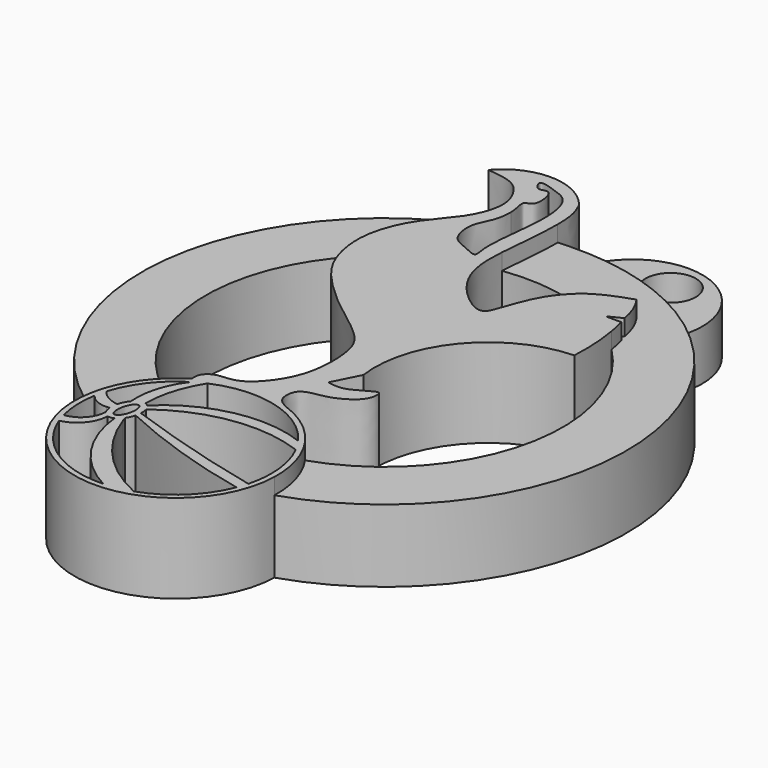
from build123d import *

# Parameters (mm, degrees)
F1_DEPTH = 5.588
F2_DEPTH = 4.572
F0_R     = 1.5875
F3_DEPTH = 3.175


with BuildPart() as f1:
    # F0 (on Top) → F1 (new body)
    with BuildSketch(Plane.XY):
        with BuildLine():
            add(Edge.make_bspline(
                [(9.4675226137, 28.9262570441), (9.6377884434, 28.5600730354), (9.8834628699, 28.0317104333), (9.9280116405, 27.0129335697), (9.9282543864, 26.6723102261)],
                knots=[0, 0, 0, 0, 0.086876421, 0.1254084481, 0.1254084481, 0.1254084481, 0.1254084481], degree=3))
            ThreePointArc((9.4675226137, 28.9262570441), (6.5855398975, 30.3820848584), (3.6394693889, 29.0607493371))
            add(Edge.make_bspline(
                [(6.4153594217, 25.9647323346), (6.4694288075, 26.1984831119), (6.5563532827, 26.8898738414), (6.270923947, 27.7619188194), (5.4817546262, 28.8759570044), (4.2923126572, 28.9952652155), (3.6394693889, 29.0607493371)],
                knots=[0.8329926078, 0.8329926078, 0.8329926078, 0.8329926078, 0.8544251793, 0.8987905471, 0.944461113, 1, 1, 1, 1], degree=3))
            add(Edge.make_bspline(
                [(3.2489586205, 19.4570574161), (3.2585820188, 19.6765598198), (3.3658053865, 20.7114630816), (4.1472744899, 22.7145193738), (5.8461302345, 24.3574500689), (6.3231041453, 25.5658977218), (6.4153594217, 25.9647323346)],
                knots=[0.6429007901, 0.6429007901, 0.6429007901, 0.6429007901, 0.6613953068, 0.7286933511, 0.7964235257, 0.8329926078, 0.8329926078, 0.8329926078, 0.8329926078], degree=3))
            add(Edge.make_bspline(
                [(6.1439445414, 2.5635087569), (6.1267459896, 2.7509238022), (6.0940391149, 3.1550863106), (6.7703318299, 3.7566090085), (8.0090184334, 3.6121657015), (9.3365928321, 4.7290568927), (10.4435600689, 6.7568994007), (10.4183432895, 9.6417123507), (9.7664304489, 11.1898983478), (7.1153127654, 13.0380454394), (5.4457461838, 14.5197066883), (3.9449714633, 16.1524276119), (3.3363630073, 17.8398435734), (3.2275529519, 18.9688103784), (3.2489586205, 19.4570574161)],
                knots=[0, 0, 0, 0, 0.0306711388, 0.0667544219, 0.1111782472, 0.1634228644, 0.2264017607, 0.2949835219, 0.3477803976, 0.4205545778, 0.4838772835, 0.5441823382, 0.6017627761, 0.6429007901, 0.6429007901, 0.6429007901, 0.6429007901], degree=3))
            ThreePointArc((6.1439445414, 2.5635087569), (5.6758586945, 2.2464200658), (5.2376841342, 1.8891349516))
            ThreePointArc((5.2376841342, 1.8891349516), (3.9560038738, 0.3121683563), (3.2352443039, -1.5878404792))
            ThreePointArc((3.2352443039, -1.5878404792), (8.7410849767, -9.2079560961), (15.8610470174, -3.0690161169))
            ThreePointArc((15.8610470174, -3.0690161169), (15.5995979559, -1.0537810633), (14.7176924672, 0.777003097))
            ThreePointArc((14.7176924672, 0.777003097), (13.3600823406, 2.1957832384), (11.6352830082, 3.1344576273))
            add(Edge.make_bspline(
                [(11.6352830082, 6.4614247531), (11.9909916175, 6.3992108596), (12.7358484491, 6.2686441315), (13.9486788913, 7.1470263197), (14.3417945026, 7.2096174042), (14.3886809346, 6.6414106446), (14.0151000707, 5.9032336522), (12.7048647509, 5.175953331), (11.6577840527, 5.0935631257), (10.8773411629, 4.7593633136), (10.8202819801, 3.5493538091), (11.3701749624, 3.2694174258), (11.6352830082, 3.1344576273)],
                knots=[0, 0, 0, 0, 0.1125206431, 0.2410223309, 0.2964112199, 0.3666673231, 0.4631878133, 0.5925387963, 0.703575949, 0.7954262121, 0.9014052402, 1, 1, 1, 1], degree=3))
            Line((11.6352830082, 6.4614247531), (12.4892638996, 8.1515945494))
            ThreePointArc((12.4892638996, 8.1515945494), (14.0890066992, 13.721629485), (19.2913204225, 16.2751365112))
            ThreePointArc((19.2913204225, 16.2751365112), (19.2958360454, 17.8540386683), (19.116258484, 19.4227018928))
            ThreePointArc((19.116258484, 19.4227018928), (19.0125042216, 19.9551156714), (18.887478465, 20.4829394477))
            Line((18.887478465, 20.4829394477), (17.8885306956, 20.4829394477))
            Line((17.8885306956, 20.4829394477), (18.7439933212, 20.9106698292))
            ThreePointArc((18.7439933212, 20.9106698292), (18.4700217182, 21.9127716109), (17.9758537809, 22.826591325))
            add(Edge.make_bspline(
                [(15.8724914361, 21.9231235575), (16.5116008288, 22.3263718271), (17.2427497292, 22.5736950578), (17.9758537809, 22.826591325)],
                knots=[0.8917309411, 0.8917309411, 0.8917309411, 0.8917309411, 1, 1, 1, 1], degree=3))
            add(Edge.make_bspline(
                [(15.6553051551, 21.7772876674), (15.6929186804, 21.8041437972), (15.7647149343, 21.8537827705), (15.8377987405, 21.9012340819), (15.8724914361, 21.9231235575)],
                knots=[0.8792525466, 0.8792525466, 0.8792525466, 0.8792525466, 0.8858537852, 0.8917309411, 0.8917309411, 0.8917309411, 0.8917309411], degree=3))
            add(Edge.make_bspline(
                [(9.653627063, 22.6096909742), (9.6044365823, 21.931853115), (9.5770927849, 20.5574182198), (10.3936145441, 18.5016697981), (12.7956005634, 16.6351011874), (13.3076315079, 17.9945203687), (13.9829014277, 20.1124237185), (15.0384895924, 21.3368801633), (15.6553051551, 21.7772876674)],
                knots=[0.2713016085, 0.2713016085, 0.2713016085, 0.2713016085, 0.3571161378, 0.473088349, 0.5875028669, 0.6586310819, 0.7710003514, 0.8792525466, 0.8792525466, 0.8792525466, 0.8792525466], degree=3))
            add(Edge.make_bspline(
                [(9.9282543864, 26.6723102261), (9.9289470345, 25.7003799708), (9.7846103647, 24.112480445), (9.67423219, 22.8936267082), (9.653627063, 22.6096909742)],
                knots=[0.1254084481, 0.1254084481, 0.1254084481, 0.1254084481, 0.2353552373, 0.2713016085, 0.2713016085, 0.2713016085, 0.2713016085], degree=3))
        make_face()
        with BuildLine():
            ThreePointArc((14.8749896726, -0.1495390196), (15.35901322, -1.4725575779), (15.5233352566, -2.8717198875))
            ThreePointArc((15.5233352566, -2.8717198875), (15.4712531175, -3.6631285753), (15.3159050553, -4.4408864039))
            ThreePointArc((15.3159050553, -4.4408864039), (15.216677163, -4.7716491629), (15.0987051027, -5.0961992674))
            ThreePointArc((15.0987051027, -5.0961992674), (13.6448785287, -7.2488329546), (11.4212797945, -8.591610735))
            ThreePointArc((11.4212797945, -8.591610735), (10.5941453961, -8.8078046903), (9.7447700774, -8.9050297237))
            ThreePointArc((9.7447700774, -8.9050297237), (6.160552487, -7.9136028823), (3.8368004869, -5.0102049491))
            ThreePointArc((3.8368004869, -5.0102049491), (3.730567503, -4.7052705495), (3.6407858072, -4.3950936935))
            ThreePointArc((3.6407858072, -4.3950936935), (3.4503224154, -3.1133774378), (3.5376779991, -1.8205348852))
            ThreePointArc((3.5376779991, -1.8205348852), (3.6121933781, -1.4625771027), (3.7082350763, -1.1097849431))
            ThreePointArc((3.7082350763, -1.1097849431), (4.7126683237, 0.8295087527), (6.3411998034, 2.284717125))
            ThreePointArc((6.3411998034, 2.284717125), (6.6947890325, 2.4842700363), (7.0609880051, 2.6596126147))
            ThreePointArc((7.0609880051, 2.6596126147), (11.0697753028, 2.955391967), (14.3761474483, 0.6693989097))
            ThreePointArc((14.3761474483, 0.6693989097), (14.6418489173, 0.2698468498), (14.8749896726, -0.1495390196))
        make_face(mode=Mode.SUBTRACT)
        with BuildLine():
            add(Edge.make_bspline(
                [(7.3250751602, 26.231599109), (7.3213609442, 26.3679146027), (7.2772166899, 26.8596978453), (7.0415882546, 27.4907877263), (7.7083294826, 27.4964433476), (7.7791285389, 28.35333207), (7.5167711978, 29.1668044545), (7.0899085567, 29.0664333131), (6.7494116907, 28.9344476046), (6.4351685642, 29.4494618157), (6.4989577998, 29.5619498938)],
                knots=[0.6810972753, 0.6810972753, 0.6810972753, 0.6810972753, 0.7001863727, 0.751143616, 0.7879470522, 0.8388789975, 0.8895414416, 0.9229400073, 0.9563385729, 1, 1, 1, 1], degree=3))
            add(Edge.make_bspline(
                [(6.4989577998, 29.5619498938), (6.5852992482, 29.7142073007), (7.6549671767, 29.3580727724), (8.6512084609, 28.9912017224), (9.0091305008, 27.7674580354), (8.9996945473, 26.6906336816), (8.996350376, 26.567646166)],
                knots=[0, 0, 0, 0, 0.059097602, 0.1194074427, 0.2016539621, 0.2119391371, 0.2119391371, 0.2119391371, 0.2119391371], degree=3))
            add(Edge.make_bspline(
                [(8.996350376, 26.567646166), (8.9599655468, 25.229532946), (8.6475024691, 23.4768527204), (8.7158520367, 22.4562373712), (8.7168731175, 22.4421235589)],
                knots=[0.2119391371, 0.2119391371, 0.2119391371, 0.2119391371, 0.3238425979, 0.325428168, 0.325428168, 0.325428168, 0.325428168], degree=3))
            add(Edge.make_bspline(
                [(8.7168731175, 22.4421235589), (8.7508238704, 21.9728418304), (8.9667957194, 21.3504968325), (8.0816841375, 21.8462692053), (7.6121073715, 22.0201317322), (7.4695571907, 22.0875872951)],
                knots=[0.325428168, 0.325428168, 0.325428168, 0.325428168, 0.3781480919, 0.4317461982, 0.4583013905, 0.4583013905, 0.4583013905, 0.4583013905], degree=3))
            add(Edge.make_bspline(
                [(7.4695571907, 22.0875872951), (7.2896882482, 22.1727023099), (6.7931432739, 22.4872385251), (6.5015368956, 24.0079505728), (7.2188337732, 24.9801829254), (7.3351186226, 25.8629938615), (7.3250751602, 26.231599109)],
                knots=[0.4583013905, 0.4583013905, 0.4583013905, 0.4583013905, 0.491808569, 0.5628531618, 0.6294792144, 0.6810972753, 0.6810972753, 0.6810972753, 0.6810972753], degree=3))
        make_face(mode=Mode.SUBTRACT)
        with BuildLine():
            ThreePointArc((6.4328653349, -1.3849926443), (10.4954041081, 0.315959139), (14.8749896726, -0.1495390196))
            ThreePointArc((14.8749896726, -0.1495390196), (14.6418489173, 0.2698468498), (14.3761474483, 0.6693989097))
            ThreePointArc((14.3761474483, 0.6693989097), (10.0511267045, 1.0079388711), (6.2185120741, -1.0246650833))
            add(Edge.make_bspline(
                [(6.4328653349, -1.3849926443), (6.3621670387, -1.1566987878), (6.2185120741, -1.0246650833)],
                knots=[5.4749174701, 5.4749174701, 5.4749174701, 5.9509476412, 5.9509476412, 5.9509476412], degree=2, weights=[1, 0.9718078804, 1]))
        make_face()
        with BuildLine():
            ThreePointArc((5.9973597527, -0.9017323609), (6.278624967, 0.9537688512), (7.0609880051, 2.6596126147))
            ThreePointArc((7.0609880051, 2.6596126147), (6.6947890325, 2.4842700363), (6.3411998034, 2.284717125))
            ThreePointArc((6.3411998034, 2.284717125), (5.4943649149, 0.6439106161), (5.3045142632, -1.1927526787))
            add(Edge.make_bspline(
                [(5.9973597527, -0.9017323609), (5.6374488055, -0.8081555984), (5.3045142632, -1.1927526787)],
                knots=[0, 0, 0, 0.9194813589, 0.9194813589, 0.9194813589], degree=2, weights=[1, 0.8961675923, 1]))
        make_face()
        with BuildLine():
            ThreePointArc((4.979049267, -1.8335161046), (4.2648046029, -1.610083006), (3.7082350763, -1.1097849431))
            ThreePointArc((3.7082350763, -1.1097849431), (3.6121933781, -1.4625771027), (3.5376779991, -1.8205348852))
            ThreePointArc((3.5376779991, -1.8205348852), (4.0661332722, -2.2599240246), (4.7406974546, -2.3914191019))
            ThreePointArc((4.7406974546, -2.3914191019), (4.8339044545, -2.3828374624), (4.9263196381, -2.3679840712))
            add(Edge.make_bspline(
                [(4.979049267, -1.8335161046), (4.9083718466, -2.1053525802), (4.9263196381, -2.3679840712)],
                knots=[1.5707963268, 1.5707963268, 1.5707963268, 2.0466911818, 2.0466911818, 2.0466911818], degree=2, weights=[1, 0.9718238302, 1]))
        make_face()
        with BuildLine():
            ThreePointArc((3.6407858072, -4.3950936935), (3.730567503, -4.7052705495), (3.8368004869, -5.0102049491))
            ThreePointArc((3.8368004869, -5.0102049491), (4.9435470971, -4.3453841937), (5.4145548493, -3.1432916876))
            add(Edge.make_bspline(
                [(5.0587007669, -2.8474331672), (5.1930466905, -3.0856996179), (5.4145548493, -3.1432916876)],
                knots=[2.5500178643, 2.5500178643, 2.5500178643, 3.1415926536, 3.1415926536, 3.1415926536], degree=2, weights=[1, 0.9565729187, 1]))
            ThreePointArc((5.0587007669, -2.8474331672), (4.6362345879, -3.8837372056), (3.6407858072, -4.3950936935))
        make_face()
        with BuildLine():
            ThreePointArc((9.7447700774, -8.9050297237), (10.5941453961, -8.8078046903), (11.4212797945, -8.591610735))
            ThreePointArc((11.4212797945, -8.591610735), (8.2701635129, -6.3348027358), (6.2826701008, -3.0072531716))
            ThreePointArc((6.2826701008, -3.0072531716), (6.1615064903, -2.9657845067), (6.0406950165, -2.9233008806))
            add(Edge.make_bspline(
                [(5.8078505529, -3.0922622298), (5.9296439193, -3.0320217748), (6.0406950165, -2.9233008806)],
                knots=[3.6533351534, 3.6533351534, 3.6533351534, 3.9645043199, 3.9645043199, 3.9645043199], degree=2, weights=[1, 0.9879211139, 1]))
            ThreePointArc((5.8078505529, -3.0922622298), (7.0456273856, -6.4935289898), (9.7447700774, -8.9050297237))
        make_face()
        with BuildLine():
            ThreePointArc((15.0987051027, -5.0961992674), (15.216677163, -4.7716491629), (15.3159050553, -4.4408864039))
            ThreePointArc((15.3159050553, -4.4408864039), (10.8632986334, -3.282990733), (6.4869466942, -1.8638466113))
            add(Edge.make_bspline(
                [(6.4328653349, -2.211507944), (6.4779668143, -2.0380405604), (6.4869466942, -1.8638466113)],
                knots=[4.7123889804, 4.7123889804, 4.7123889804, 5.0194998772, 5.0194998772, 5.0194998772], degree=2, weights=[1, 0.9882335099, 1]))
            ThreePointArc((6.4328653349, -2.211507944), (10.6844447629, -3.8982067371), (15.0987051027, -5.0961992674))
        make_face()
        with BuildLine():
            ThreePointArc((6.0406950165, -2.9233008806), (6.1615064903, -2.9657845067), (6.2826701008, -3.0072531716))
            ThreePointArc((6.2826701008, -3.0072531716), (6.2376237015, -2.8738175851), (6.1945602821, -2.7397288991))
            add(Edge.make_bspline(
                [(6.0406950165, -2.9233008806), (6.1232209217, -2.8425066297), (6.1945602821, -2.7397288991)],
                knots=[3.9645043199, 3.9645043199, 3.9645043199, 4.1965816846, 4.1965816846, 4.1965816846], degree=2, weights=[1, 0.9932750631, 1]))
        make_face()
        with BuildLine():
            add(Edge.make_bspline(
                [(6.4869466942, -1.8638466113), (6.5003913955, -1.6030429452), (6.4328653349, -1.3849926443)],
                knots=[5.0194998772, 5.0194998772, 5.0194998772, 5.4749174701, 5.4749174701, 5.4749174701], degree=2, weights=[1, 0.9741861818, 1]))
            add(Edge.make_bspline(
                [(6.4328653349, -1.3849926443), (6.3621670387, -1.1566987878), (6.2185120741, -1.0246650833)],
                knots=[5.4749174701, 5.4749174701, 5.4749174701, 5.9509476412, 5.9509476412, 5.9509476412], degree=2, weights=[1, 0.9718078804, 1]))
            add(Edge.make_bspline(
                [(6.2185120741, -1.0246650833), (6.1192360123, -0.9334201601), (5.9973597527, -0.9017323609)],
                knots=[5.9509476412, 5.9509476412, 5.9509476412, 6.2831853072, 6.2831853072, 6.2831853072], degree=2, weights=[1, 0.9862339671, 1]))
            add(Edge.make_bspline(
                [(5.9973597527, -0.9017323609), (5.6374488055, -0.8081555984), (5.3045142632, -1.1927526787)],
                knots=[0, 0, 0, 0.9194813589, 0.9194813589, 0.9194813589], degree=2, weights=[1, 0.8961675923, 1]))
            add(Edge.make_bspline(
                [(5.3045142632, -1.1927526787), (5.0774500612, -1.4550511729), (4.979049267, -1.8335161046)],
                knots=[0.9194813589, 0.9194813589, 0.9194813589, 1.5707963268, 1.5707963268, 1.5707963268], degree=2, weights=[1, 0.9474405812, 1]))
            add(Edge.make_bspline(
                [(4.979049267, -1.8335161046), (4.9083718466, -2.1053525802), (4.9263196381, -2.3679840712)],
                knots=[1.5707963268, 1.5707963268, 1.5707963268, 2.0466911818, 2.0466911818, 2.0466911818], degree=2, weights=[1, 0.9718238302, 1]))
            add(Edge.make_bspline(
                [(4.9263196381, -2.3679840712), (4.9302789866, -2.4259215381), (4.9386669761, -2.4815557874)],
                knots=[2.0466911818, 2.0466911818, 2.0466911818, 2.1536006724, 2.1536006724, 2.1536006724], degree=2, weights=[1, 0.9985716353, 1]))
            add(Edge.make_bspline(
                [(4.9386669761, -2.4815557874), (4.9701531734, -2.6903914031), (5.0587007669, -2.8474331672)],
                knots=[2.1536006724, 2.1536006724, 2.1536006724, 2.5500178643, 2.5500178643, 2.5500178643], degree=2, weights=[1, 0.9804209021, 1]))
            add(Edge.make_bspline(
                [(5.0587007669, -2.8474331672), (5.1930466905, -3.0856996179), (5.4145548493, -3.1432916876)],
                knots=[2.5500178643, 2.5500178643, 2.5500178643, 3.1415926536, 3.1415926536, 3.1415926536], degree=2, weights=[1, 0.9565729187, 1]))
            add(Edge.make_bspline(
                [(5.4145548493, -3.1432916876), (5.6047179422, -3.1927340475), (5.8078505529, -3.0922622298)],
                knots=[3.1415926536, 3.1415926536, 3.1415926536, 3.6533351534, 3.6533351534, 3.6533351534], degree=2, weights=[1, 0.9674431597, 1]))
            add(Edge.make_bspline(
                [(5.8078505529, -3.0922622298), (5.9296439193, -3.0320217748), (6.0406950165, -2.9233008806)],
                knots=[3.6533351534, 3.6533351534, 3.6533351534, 3.9645043199, 3.9645043199, 3.9645043199], degree=2, weights=[1, 0.9879211139, 1]))
            add(Edge.make_bspline(
                [(6.0406950165, -2.9233008806), (6.1232209217, -2.8425066297), (6.1945602821, -2.7397288991)],
                knots=[3.9645043199, 3.9645043199, 3.9645043199, 4.1965816846, 4.1965816846, 4.1965816846], degree=2, weights=[1, 0.9932750631, 1]))
            add(Edge.make_bspline(
                [(6.1945602821, -2.7397288991), (6.3559997546, -2.5071450561), (6.4328653349, -2.211507944)],
                knots=[4.1965816846, 4.1965816846, 4.1965816846, 4.7123889804, 4.7123889804, 4.7123889804], degree=2, weights=[1, 0.9669267856, 1]))
            add(Edge.make_bspline(
                [(6.4328653349, -2.211507944), (6.4779668143, -2.0380405604), (6.4869466942, -1.8638466113)],
                knots=[4.7123889804, 4.7123889804, 4.7123889804, 5.0194998772, 5.0194998772, 5.0194998772], degree=2, weights=[1, 0.9882335099, 1]))
        make_face()
        with BuildLine():
            add(Edge.make_bspline(
                [(5.8615626767, -1.2643197551), (5.2775939028, -1.1444706295), (5.3361702261, -2.341683596), (5.3947465494, -3.5388965625), (5.920139, -2.4615327216), (6.4455314506, -1.3841688808), (5.8615626767, -1.2643197551)],
                knots=[0, 0, 0, 2.0943951024, 2.0943951024, 4.1887902048, 4.1887902048, 6.2831853072, 6.2831853072, 6.2831853072], degree=2, weights=[1, 0.5, 1, 0.5, 1, 0.5, 1]))
        make_face(mode=Mode.SUBTRACT)
    extrude(amount=F1_DEPTH)

    # F0 (on Top) → F2 (join)
    with BuildSketch(Plane.XY):
        with BuildLine():
            ThreePointArc((10.617429672, 26.7126806436), (10.2726137945, 26.6963916973), (9.9282543864, 26.6723102261))
            add(Edge.make_bspline(
                [(9.9282543864, 26.6723102261), (9.9289470345, 25.7003799708), (9.7846103647, 24.112480445), (9.67423219, 22.8936267082), (9.653627063, 22.6096909742)],
                knots=[0.1254084481, 0.1254084481, 0.1254084481, 0.1254084481, 0.2353552373, 0.2713016085, 0.2713016085, 0.2713016085, 0.2713016085], degree=3))
            ThreePointArc((9.653627063, 22.6096909742), (12.6073886205, 22.6189077425), (15.4618272388, 21.8593207088))
            ThreePointArc((15.4618272388, 21.8593207088), (15.667912905, 21.8863718291), (15.8724914361, 21.9231235575))
            add(Edge.make_bspline(
                [(15.8724914361, 21.9231235575), (16.5116008288, 22.3263718271), (17.2427497292, 22.5736950578), (17.9758537809, 22.826591325)],
                knots=[0.8917309411, 0.8917309411, 0.8917309411, 0.8917309411, 1, 1, 1, 1], degree=3))
            ThreePointArc((17.9758537809, 22.826591325), (18.4700217182, 21.9127716109), (18.7439933212, 20.9106698292))
            Line((18.7439933212, 20.9106698292), (17.8885306956, 20.4829394477))
            Line((17.8885306956, 20.4829394477), (18.887478465, 20.4829394477))
            ThreePointArc((18.887478465, 20.4829394477), (19.0125042216, 19.9551156714), (19.116258484, 19.4227018928))
            ThreePointArc((19.116258484, 19.4227018928), (22.1196386973, 8.8725314975), (14.7176924672, 0.777003097))
            ThreePointArc((14.7176924672, 0.777003097), (15.5995979559, -1.0537810633), (15.8610470174, -3.0690161169))
            ThreePointArc((15.8610470174, -3.0690161169), (26.330312836, 9.7048813768), (19.0490896259, 24.5292455293))
            ThreePointArc((19.0490896259, 24.5292455293), (14.9922808842, 26.2350472752), (10.617429672, 26.7126806436))
        make_face()
        with BuildLine():
            add(Edge.make_bspline(
                [(3.2489586205, 19.4570574161), (3.2585820188, 19.6765598198), (3.3658053865, 20.7114630816), (4.1472744899, 22.7145193738), (5.8461302345, 24.3574500689), (6.3231041453, 25.5658977218), (6.4153594217, 25.9647323346)],
                knots=[0.6429007901, 0.6429007901, 0.6429007901, 0.6429007901, 0.6613953068, 0.7286933511, 0.7964235257, 0.8329926078, 0.8329926078, 0.8329926078, 0.8329926078], degree=3))
            ThreePointArc((6.4153594217, 25.9647323346), (-3.9998320007, 13.2070419697), (3.2352443039, -1.5878404792))
            ThreePointArc((3.2352443039, -1.5878404792), (3.9560038738, 0.3121683563), (5.2376841342, 1.8891349516))
            ThreePointArc((5.2376841342, 1.8891349516), (-0.0182398067, 10.1906785575), (3.2489586205, 19.4570574161))
        make_face()
    extrude(amount=F2_DEPTH)

    # F0 (on Top) → F3 (join)
    with BuildSketch(Plane.XY):
        with BuildLine():
            ThreePointArc((19.0490896259, 24.5292455293), (16.095519289, 30.4953667216), (10.617429672, 26.7126806436))
            ThreePointArc((10.617429672, 26.7126806436), (14.9922808842, 26.2350472752), (19.0490896259, 24.5292455293))
        make_face()
        with Locations((15.6023083255, 28.4727159888)):
            Circle(F0_R, mode=Mode.SUBTRACT)
    extrude(amount=F3_DEPTH)


solid = f1.part
